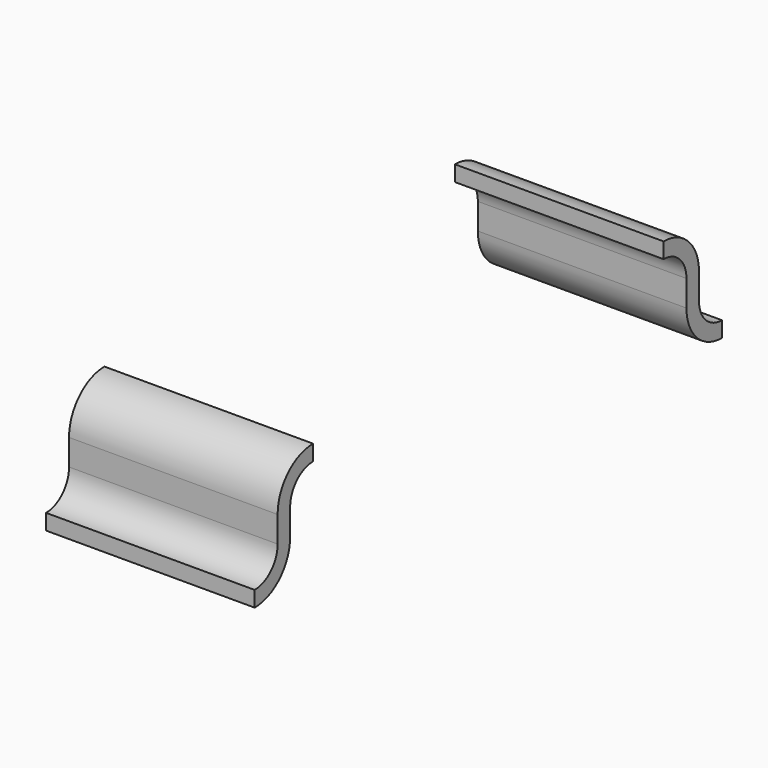
from build123d import *

# Parameters (mm, degrees)
EXTRUDE_DEPTH = 2


with BuildPart() as pin:
    # Sketch → Extrude (new body)
    with BuildSketch(Plane.YZ):
        with BuildLine():
            ThreePointArc((-0.7, 0), (-0.39948, 0.12448), (-0.275, 0.425))
            Line((-0.275, 0.675), (-0.275, 0.425))
            ThreePointArc((0, 0.95), (-0.194454, 0.869454), (-0.275, 0.675))
            Line((0, 1.1), (0, 0.95))
            ThreePointArc((0, 1.1), (-0.30052, 0.97552), (-0.425, 0.675))
            Line((-0.425, 0.675), (-0.425, 0.425))
            ThreePointArc((-0.7, 0.15), (-0.505546, 0.230546), (-0.425, 0.425))
            Line((-0.7, 0.15), (-0.7, 0))
        make_face()
    extrude(amount=EXTRUDE_DEPTH)


with BuildPart() as pin_1:
    # Extrude placement: moved
    add(pin.part.moved(Location((0.7, 0, 0))))


with BuildPart() as clone011:
    # Clone011 base: copy of Pin
    add(pin_1.part)


with BuildPart() as part_mirroring:
    # Part__Mirroring: instance of Clone011
    add(clone011.part.mirror(Plane(origin=(0, 0, 0), x_dir=(1, 0, 0), z_dir=(0, 1, 0))))


with BuildPart() as part_mirroring_1:
    # Part__Mirroring placement: moved
    add(part_mirroring.part.moved(Location((0, 4.2, 0))))


with BuildPart() as pins:
    # Fusion028 base: copy of Pin
    add(pin_1.part)

    # Fusion028: union Part__Mirroring
    add(part_mirroring_1.part)


solid = pins.part
